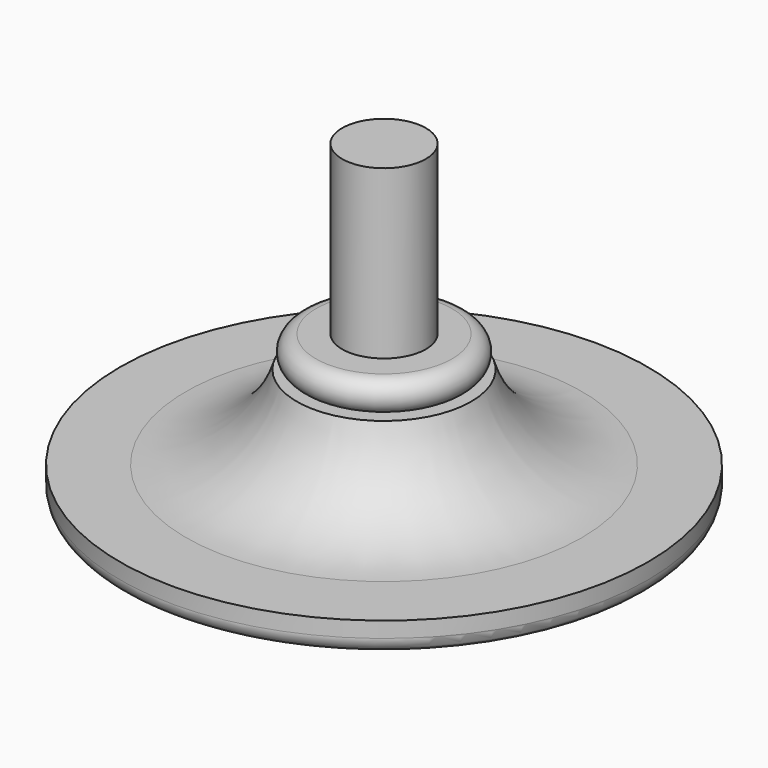
from build123d import *


with BuildPart() as f1:
    # F0 (on Front) → F1 (revolve)
    with BuildSketch(Plane.XZ):
        with BuildLine():
            Line((0, 23.8125), (0, 0))
            Line((0, 0), (18.826609, 0))
            ThreePointArc((18.826609, 0), (19.668508, 0.348726), (20.017234, 1.190625))
            Line((20.017234, 1.190625), (20.017234, 2.38125))
            Line((20.017234, 2.38125), (15.009553, 2.38125))
            ThreePointArc((15.009553, 2.38125), (9.744412, 4.147372), (6.609293, 8.73125))
            Line((6.609293, 8.73125), (5.159375, 8.73125))
            ThreePointArc((5.159375, 8.73125), (6.35, 9.921875), (5.159375, 11.1125))
            Line((5.159375, 11.1125), (3.175, 11.1125))
            Line((3.175, 11.1125), (3.175, 23.8125))
            Line((3.175, 23.8125), (0, 23.8125))
        make_face()
    revolve(axis=Axis((0, 0, 11.90625), (0, 0, 1)))


solid = f1.part
